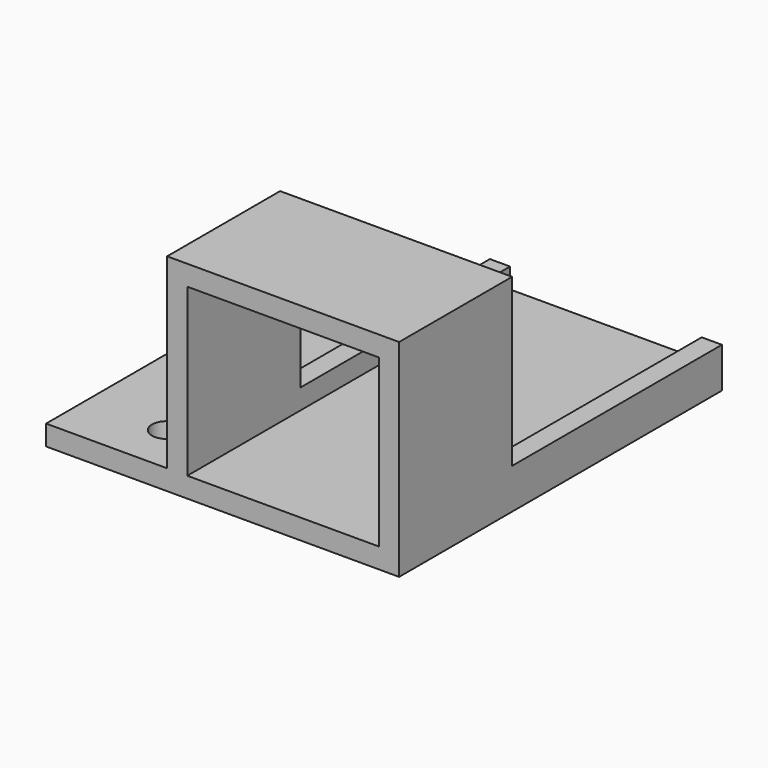
from build123d import *

# Parameters (mm, degrees)
SKETCH_W     = 30
SKETCH_H     = 40
SKETCH_R     = 1.5
PAD_DEPTH    = 2
SKETCH001_W  = 2
SKETCH001_H  = 40
PAD001_DEPTH = 2
SKETCH002_W  = 2
SKETCH002_H  = 14
PAD002_DEPTH = 14.5
SKETCH003_W  = 2
SKETCH003_H  = 14
PAD003_DEPTH = 14.5
SKETCH004_W  = 23
SKETCH004_H  = 14
PAD004_DEPTH = 2
SKETCH005_W  = 40
SKETCH005_H  = 2
PAD005_DEPTH = 5


with BuildPart() as part:
    # Sketch → Pad (new body)
    with BuildSketch(Plane.XY):
        with Locations((15, 20)):
            Rectangle(SKETCH_W, SKETCH_H)
        with Locations((3, 5)):
            Circle(SKETCH_R, mode=Mode.SUBTRACT)
        with Locations((3, 30)):
            Circle(SKETCH_R, mode=Mode.SUBTRACT)
    extrude(amount=PAD_DEPTH)

    # Sketch001 → Pad001 (new body)
    with BuildSketch(Plane.XY.offset(2)):
        with Locations((29, 20)):
            Rectangle(SKETCH001_W, SKETCH001_H)
        with Locations((8, 20)):
            Rectangle(SKETCH001_W, SKETCH001_H)
    extrude(amount=PAD001_DEPTH)

    # Sketch002 → Pad002 (new body)
    with BuildSketch(Plane.XY.offset(4)):
        with Locations((29, 7)):
            Rectangle(SKETCH002_W, SKETCH002_H)
    extrude(amount=PAD002_DEPTH)

    # Sketch003 → Pad003 (new body)
    with BuildSketch(Plane.XY.offset(4)):
        with Locations((8, 7)):
            Rectangle(SKETCH003_W, SKETCH003_H)
    extrude(amount=PAD003_DEPTH)

    # Sketch004 → Pad004 (new body)
    with BuildSketch(Plane.XY.offset(18.5)):
        with Locations((18.5, 7)):
            Rectangle(SKETCH004_W, SKETCH004_H)
    extrude(amount=PAD004_DEPTH)

    # Sketch005 → Pad005 (new body)
    with BuildSketch(Plane(origin=(0, 0, 0), x_dir=(0, -1, 0), z_dir=(-1, 0, 0))):
        with Locations((-20, 1)):
            Rectangle(SKETCH005_W, SKETCH005_H)
    extrude(amount=PAD005_DEPTH)


solid = part.part
